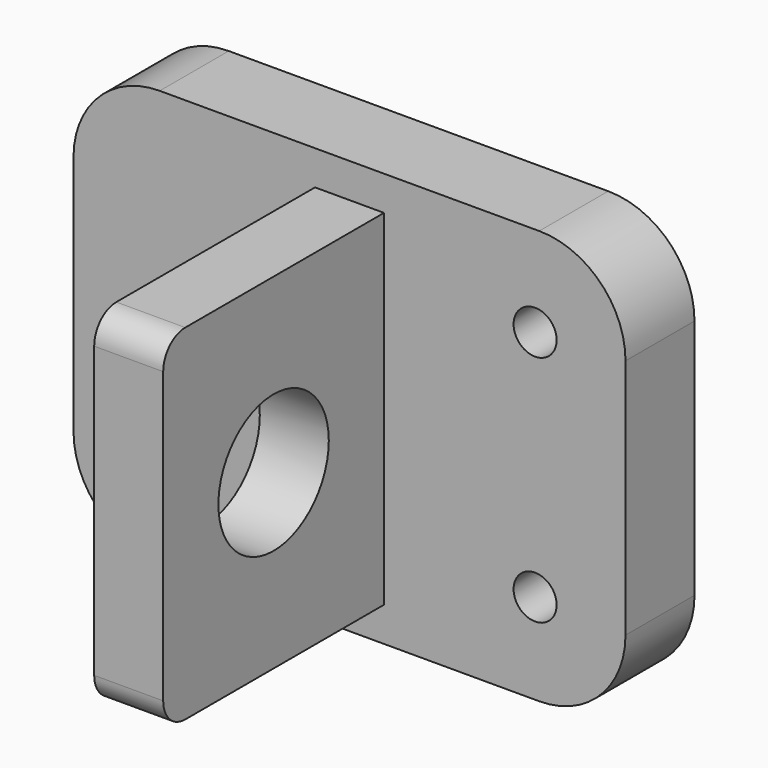
from build123d import *

# Parameters (mm, degrees)
F0_W      = 101.6
F0_H      = 76.2
F1_DEPTH  = 15.875
F2_R      = 15.875
F3_R      = 3.9624
F4_DEPTH  = 25.4
F5_W      = 12.7
F5_H      = 63.5
F6_DEPTH  = 50.8
F7_R      = 5.08
F8_R      = 12.7
F9_DEPTH  = 25.4
F10_W     = 6.35
F10_H     = 76.149869
F11_DEPTH = 5.08


with BuildPart() as f1:
    # F0 (on Front) → F1 (new body)
    with BuildSketch(Plane.XZ):
        Rectangle(F0_W, F0_H)
    extrude(amount=F1_DEPTH)

    # F2
    f2_edges = [f1.edges().sort_by_distance(p)[0] for p in [
        (-50.8, -7.9375, 38.1),
        (50.8, -7.9375, 38.1),
        (50.8, -7.9375, -38.1),
        (-50.8, -7.9375, -38.1),
    ]]
    fillet(f2_edges, radius=F2_R)

    # F3 (on face) → F4 (cut)
    with BuildSketch(Plane.XZ.offset(15.875)):
        with Locations((34.163, -21.463)):
            Circle(F3_R)
        with Locations((34.163, 21.463)):
            Circle(F3_R)
    extrude(amount=-F4_DEPTH, mode=Mode.SUBTRACT)

    # F5 (on face) → F6 (join)
    with BuildSketch(Plane.XZ.offset(15.875)):
        Rectangle(F5_W, F5_H)
    extrude(amount=F6_DEPTH)

    # F7
    f7_edges = [f1.edges().sort_by_distance(p)[0] for p in [
        (0, -66.675, -31.75),
        (0, -66.675, 31.75),
    ]]
    fillet(f7_edges, radius=F7_R)

    # F8 (on face) → F9 (cut)
    with BuildSketch(Plane.YZ.offset(6.35)):
        with Locations((-41.275, 0)):
            Circle(F8_R)
    extrude(amount=-F9_DEPTH, mode=Mode.SUBTRACT)

    # F10 (on face) → F11 (cut)
    with BuildSketch(Plane.XZ):
        with Locations((-24.497632, -0.025066)):
            Rectangle(F10_W, F10_H)
    extrude(amount=F11_DEPTH, mode=Mode.SUBTRACT)


solid = f1.part
